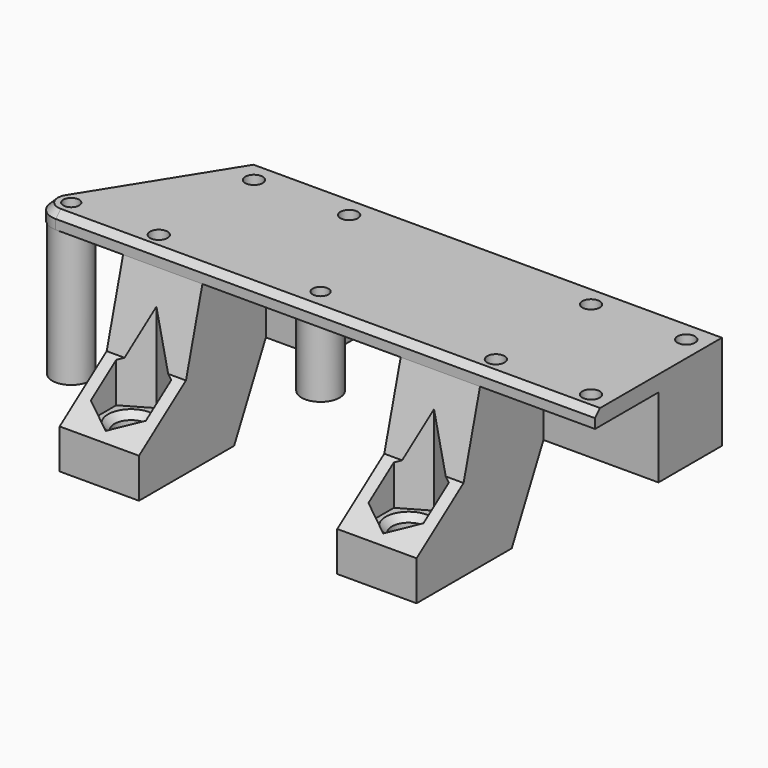
from build123d import *

# Parameters (mm, degrees)
SKETCH062_R     = 1.1
SKETCH062_R_2   = 1
PAD027_DEPTH    = 2
SKETCH063_R     = 2.4
SKETCH063_R_2   = 1
PAD028_DEPTH    = 17
SKETCH064_R     = 2.4
SKETCH064_R_2   = 1
PAD029_DEPTH    = 9
SKETCH065_R     = 2.1
SKETCH065_R_2   = 1.1
PAD030_DEPTH    = 20
POCKET029_DEPTH = 15
POCKET030_DEPTH = 59.501
SKETCH068_W     = 5
SKETCH068_H     = 3
SKETCH068_H_2   = 5
POCKET031_DEPTH = 5
SKETCH069_R     = 3.1
POCKET032_DEPTH = 8
POCKET033_DEPTH = 6
POCKET034_DEPTH = 7
CHAMFER004_SIZE = 0.8


with BuildPart() as part:
    # Sketch062 → Pad027 (new body)
    with BuildSketch(Plane(origin=(51, -95, 6), x_dir=(1, 0, 0), z_dir=(0, 0, -1))):
        with BuildLine():
            Line((0, 0), (-60, 0))
            Line((-60, 0), (-70.068466, 16.112914))
            ThreePointArc((-68, 20), (-70.213604, 18.684045), (-70.068466, 16.112914))
            Line((0, 20), (-68, 20))
            Line((0, 0), (0, 20))
        make_face()
        with Locations((-2.5, 2.5)):
            Circle(SKETCH062_R, mode=Mode.SUBTRACT)
        with Locations((-2.5, 17.5)):
            Circle(SKETCH062_R, mode=Mode.SUBTRACT)
        with Locations((-14.5, 17.5)):
            Circle(SKETCH062_R, mode=Mode.SUBTRACT)
        with Locations((-14.5, 2.5)):
            Circle(SKETCH062_R, mode=Mode.SUBTRACT)
        with Locations((-45, 2.5)):
            Circle(SKETCH062_R, mode=Mode.SUBTRACT)
        with Locations((-57, 2.5)):
            Circle(SKETCH062_R, mode=Mode.SUBTRACT)
        with Locations((-57, 17.5)):
            Circle(SKETCH062_R, mode=Mode.SUBTRACT)
        with Locations((-68.022489, 17.518069)):
            Circle(SKETCH062_R_2, mode=Mode.SUBTRACT)
        with Locations((-37, 17)):
            Circle(SKETCH062_R_2, mode=Mode.SUBTRACT)
    extrude(amount=PAD027_DEPTH)

    # Sketch063 → Pad028 (new body)
    with BuildSketch(Plane(origin=(51, -95, 4), x_dir=(1, 0, 0), z_dir=(0, 0, -1))):
        with Locations((-68.022489, 17.518069)):
            Circle(SKETCH063_R)
        with Locations((-68.022489, 17.518069)):
            Circle(SKETCH063_R_2, mode=Mode.SUBTRACT)
    extrude(amount=PAD028_DEPTH)

    # Sketch064 → Pad029 (new body)
    with BuildSketch(Plane(origin=(51, -95, 4), x_dir=(1, 0, 0), z_dir=(0, 0, -1))):
        with Locations((-37, 17)):
            Circle(SKETCH064_R)
        with Locations((-37, 17)):
            Circle(SKETCH064_R_2, mode=Mode.SUBTRACT)
    extrude(amount=PAD029_DEPTH)

    # Sketch065 → Pad030 (new body)
    with BuildSketch(Plane(origin=(51, -95, 4), x_dir=(1, 0, 0), z_dir=(0, 0, -1))):
        Polygon((0, 0), (-24.5, 0), (-24.5, 30), (-14.5, 30), (-14.5, 10), (0, 10), align=None)
        with Locations((-19.5, 25)):
            Circle(SKETCH065_R, mode=Mode.SUBTRACT)
        with Locations((-14.5, 2.5)):
            Circle(SKETCH065_R_2, mode=Mode.SUBTRACT)
        with Locations((-2.5, 2.5)):
            Circle(SKETCH065_R_2, mode=Mode.SUBTRACT)
        Polygon((-59.5, 0), (-42.5, 0), (-42.5, 10), (-49.5, 10), (-49.5, 30), (-59.5, 30), align=None)
        with Locations((-54.5, 25)):
            Circle(SKETCH065_R, mode=Mode.SUBTRACT)
        with Locations((-57, 2.5)):
            Circle(SKETCH065_R_2, mode=Mode.SUBTRACT)
        with Locations((-45, 2.5)):
            Circle(SKETCH065_R_2, mode=Mode.SUBTRACT)
        with Locations((-57, 17.5)):
            Circle(SKETCH065_R_2, mode=Mode.SUBTRACT)
    extrude(amount=PAD030_DEPTH)

    # Sketch066 → Pocket029 (cut)
    with BuildSketch(Plane(origin=(51, -95, 4), x_dir=(1, 0, 0), z_dir=(0, 0, 1))):
        Polygon((-51.035898, -27), (-51.035898, -23), (-54.5, -21), (-57.964102, -23), (-57.964102, -27), (-54.5, -29), align=None)
        Polygon((-16.035898, -27), (-16.035898, -23), (-19.5, -21), (-22.964102, -23), (-22.964102, -27), (-19.5, -29), align=None)
    extrude(amount=-POCKET029_DEPTH, mode=Mode.SUBTRACT)

    # Sketch067 → Pocket030 (cut, through all)
    with BuildSketch(Plane(origin=(-8.5, -95, 6), x_dir=(0, 1, 0), z_dir=(-1, 0, 0))):
        Polygon((-22.58819, 11.659258), (-30, 17), (-30, 2), (-20, 2), align=None)
        Polygon((0, 22), (0, 12), (-10, 12), (-15, 22), align=None)
    extrude(amount=-POCKET030_DEPTH, mode=Mode.SUBTRACT)

    # Sketch068 → Pocket031 (cut)
    with BuildSketch(Plane(origin=(-8.5, -95, 6), x_dir=(0, 1, 0), z_dir=(-1, 0, 0))):
        with Locations((-17.5, 20.5)):
            Rectangle(SKETCH068_W, SKETCH068_H)
        with Locations((-17.5, 11.5)):
            Rectangle(SKETCH068_W, SKETCH068_H_2)
    extrude(amount=-POCKET031_DEPTH, mode=Mode.SUBTRACT)

    # Sketch069 → Pocket032 (cut)
    with BuildSketch(Plane(origin=(51, -95, 6), x_dir=(1, 0, 0), z_dir=(0, 1, 0))):
        with Locations((-8.5, 6)):
            Circle(SKETCH069_R)
        with Locations((-51, 6)):
            Circle(SKETCH069_R)
    extrude(amount=-POCKET032_DEPTH, mode=Mode.SUBTRACT)

    # Sketch070 → Pocket033 (cut, symmetric)
    with BuildSketch(Plane(origin=(51, -95, -3), x_dir=(1, 0, 0), z_dir=(0, 0, -1))):
        Polygon((-55.008142, 16.35), (-55.008142, 18.65), (-57, 19.8), (-58.991858, 18.65), (-58.991858, 16.35), (-57, 15.2), align=None)
    extrude(amount=POCKET033_DEPTH, both=True, mode=Mode.SUBTRACT)

    # Sketch071 → Pocket034 (cut)
    with BuildSketch(Plane(origin=(26.5, -95, 6), x_dir=(0, 1, 0), z_dir=(-1, 0, 0))):
        Polygon((-10, 12), (0, 2), (0, 12), align=None)
    extrude(amount=-POCKET034_DEPTH, mode=Mode.SUBTRACT)

    # Chamfer004
    chamfer004_edges = [part.edges().sort_by_distance(p)[0] for p in [
        (17, -115, 6),
        (29.4, -120, -11),
        (-5.6, -120, -11),
        (-7.1, -112.5, -9),
    ]]
    chamfer(chamfer004_edges, length=CHAMFER004_SIZE)


solid = part.part
